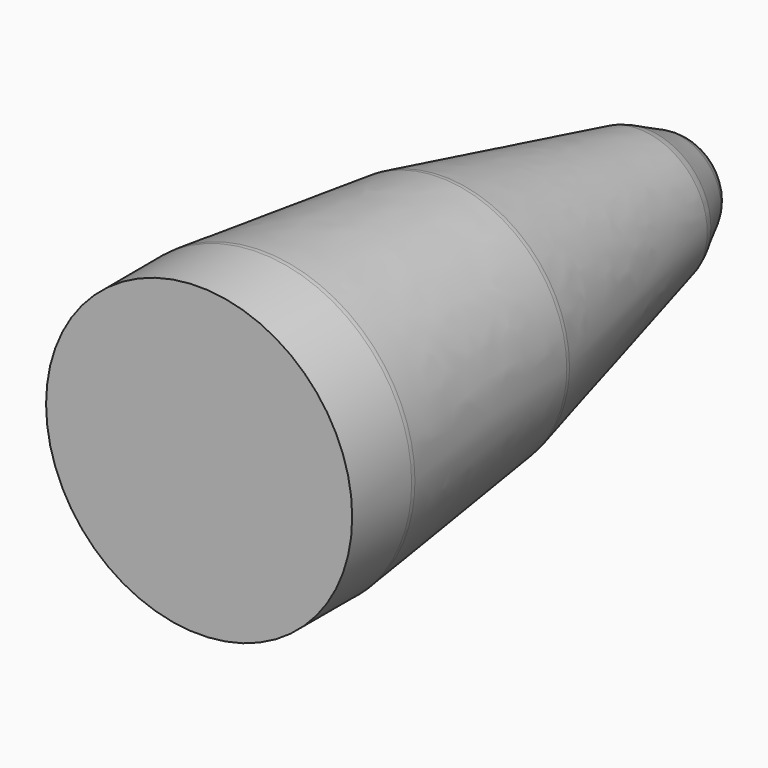
from build123d import *

# Parameters (mm, degrees)
CYLINDER046_R     = 4
CYLINDER046_DEPTH = 16
CHAMFER010_SIZE2  = 3
CHAMFER010_SIZE   = 6
CHAMFER011_SIZE   = 5
CHAMFER012_SIZE   = 3
FILLET003_R       = 1


with BuildPart() as part:
    # Cylinder046 → Cylinder046 (new body)
    with BuildSketch(Plane.XZ.offset(-60)):
        Circle(CYLINDER046_R)
    extrude(amount=CYLINDER046_DEPTH)

    # Chamfer010
    chamfer010_edges = [part.edges().sort_by_distance(p)[0] for p in [
        (-4, 60, 0),
    ]]
    chamfer010_side = part.faces().sort_by_distance((-4, 52, 0))[0]
    chamfer(chamfer010_edges, length=CHAMFER010_SIZE, length2=CHAMFER010_SIZE2, reference=chamfer010_side)

    # Chamfer011
    chamfer011_edges = [part.edges().sort_by_distance(p)[0] for p in [
        (-4, 54, 0),
    ]]
    chamfer(chamfer011_edges, length=CHAMFER011_SIZE)

    # Chamfer012
    chamfer012_edges = [part.edges().sort_by_distance(p)[0] for p in [
        (-3.999983, 49, 0),
    ]]
    chamfer(chamfer012_edges, length=CHAMFER012_SIZE)

    # Fillet003
    fillet003_edges = [part.edges().sort_by_distance(p)[0] for p in [
        (-4, 46, 0),
        (-3.310727, 51.919748, 0),
        (-1.763924, 58.472136, 0),
        (-1, 60, 0),
    ]]
    fillet(fillet003_edges, radius=FILLET003_R)


with BuildPart() as part_1:
    # Fillet003 placement: moved
    add(part.part.moved(Location((0, 24, 0))))


solid = part_1.part
